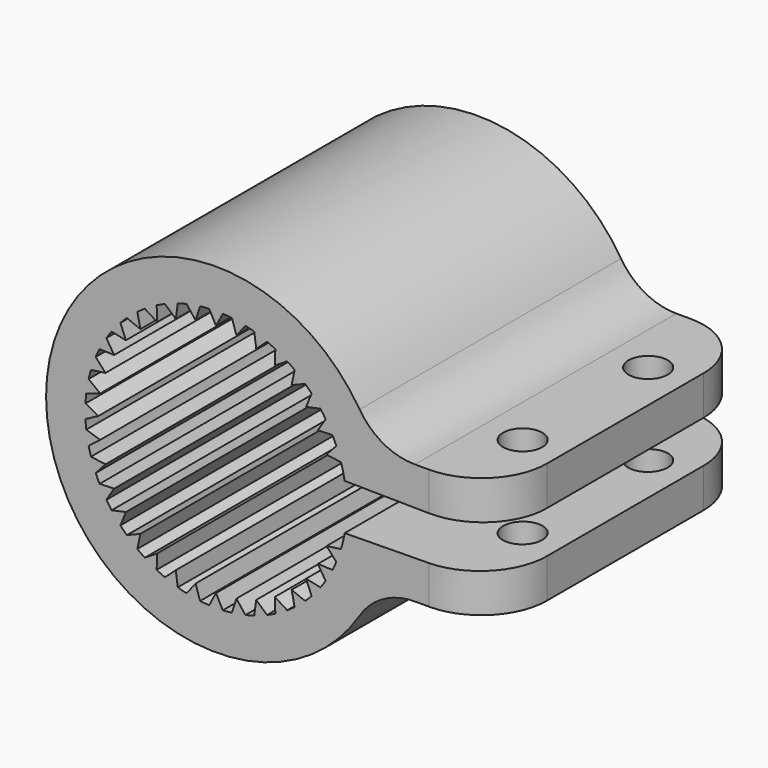
from build123d import *

# Parameters (mm, degrees)
F1_DEPTH = 25
F2_R     = 5
F3_R     = 1.5
F4_DEPTH = 9.231813


with BuildPart() as f1:
    # F0 (on Front) → F1 (new body)
    with BuildSketch(Plane.XZ):
        with BuildLine():
            ThreePointArc((-4.539669, 8.910186), (-4.226183, 9.063078), (-3.907555, 9.204945))
            Line((-3.907555, 9.204945), (-3.078181, 8.457234))
            Line((-3.078181, 8.457234), (-2.923464, 9.563125))
            ThreePointArc((-2.923464, 9.563125), (-2.58819, 9.659258), (-2.249769, 9.743641))
            Line((-2.249769, 9.743641), (-1.562834, 8.86327))
            Line((-1.562834, 8.86327), (-1.21843, 9.925494))
            ThreePointArc((-1.21843, 9.925494), (-0.871557, 9.961947), (-0.523624, 9.986281))
            Line((-0.523624, 9.986281), (0, 9))
            Line((0, 9), (0.523624, 9.986281))
            ThreePointArc((0.523624, 9.986281), (0.871557, 9.961947), (1.21843, 9.925494))
            Line((1.21843, 9.925494), (1.562834, 8.86327))
            Line((1.562834, 8.86327), (2.249769, 9.743641))
            ThreePointArc((2.249769, 9.743641), (2.58819, 9.659258), (2.923464, 9.563125))
            Line((2.923464, 9.563125), (3.078181, 8.457234))
            Line((3.078181, 8.457234), (3.907555, 9.204945))
            ThreePointArc((3.907555, 9.204945), (4.226183, 9.063078), (4.539669, 8.910186))
            Line((4.539669, 8.910186), (4.5, 7.794229))
            Line((4.5, 7.794229), (5.446613, 8.386561))
            ThreePointArc((5.446613, 8.386561), (5.735764, 8.19152), (6.017938, 7.986515))
            Line((6.017938, 7.986515), (5.785088, 6.8944))
            Line((5.785088, 6.8944), (6.820178, 7.313356))
            ThreePointArc((6.820178, 7.313356), (7.071068, 7.071068), (7.313356, 6.820178))
            Line((7.313356, 6.820178), (6.8944, 5.785088))
            Line((6.8944, 5.785088), (7.986515, 6.017938))
            ThreePointArc((7.986515, 6.017938), (8.19152, 5.735764), (8.386561, 5.446613))
            Line((8.386561, 5.446613), (7.794229, 4.5))
            Line((7.794229, 4.5), (8.910186, 4.539669))
            ThreePointArc((8.910186, 4.539669), (9.063078, 4.226183), (9.204945, 3.907555))
            Line((9.204945, 3.907555), (8.457234, 3.078181))
            Line((8.457234, 3.078181), (9.563125, 2.923464))
            ThreePointArc((9.563125, 2.923464), (9.721066, 2.345394), (9.844098, 1.758903))
            Line((9.844098, 1.758903), (21.31177, 1.615906))
            Line((21.31177, 1.615906), (21.31177, 4.615906))
            Line((21.31177, 4.615906), (12.152918, 4.615906))
            ThreePointArc((12.152918, 4.615906), (-13, 0), (12.152918, -4.615906))
            Line((12.152918, -4.615906), (21.31177, -4.615906))
            Line((21.31177, -4.615906), (21.31177, -1.615906))
            Line((21.31177, -1.615906), (9.844098, -1.758903))
            ThreePointArc((9.844098, -1.758903), (9.721066, -2.345394), (9.563125, -2.923464))
            Line((9.563125, -2.923464), (8.457234, -3.078181))
            Line((8.457234, -3.078181), (9.204945, -3.907555))
            ThreePointArc((9.204945, -3.907555), (9.063078, -4.226183), (8.910186, -4.539669))
            Line((8.910186, -4.539669), (7.794229, -4.5))
            Line((7.794229, -4.5), (8.386561, -5.446613))
            ThreePointArc((8.386561, -5.446613), (8.19152, -5.735764), (7.986515, -6.017938))
            Line((7.986515, -6.017938), (6.8944, -5.785088))
            Line((6.8944, -5.785088), (7.313356, -6.820178))
            ThreePointArc((7.313356, -6.820178), (7.071068, -7.071068), (6.820178, -7.313356))
            Line((6.820178, -7.313356), (5.785088, -6.8944))
            Line((5.785088, -6.8944), (6.017938, -7.986515))
            ThreePointArc((6.017938, -7.986515), (5.735764, -8.19152), (5.446613, -8.386561))
            Line((5.446613, -8.386561), (4.5, -7.794229))
            Line((4.5, -7.794229), (4.539669, -8.910186))
            ThreePointArc((4.539669, -8.910186), (4.226183, -9.063078), (3.907555, -9.204945))
            Line((3.907555, -9.204945), (3.078181, -8.457234))
            Line((3.078181, -8.457234), (2.923464, -9.563125))
            ThreePointArc((2.923464, -9.563125), (2.58819, -9.659258), (2.249769, -9.743641))
            Line((2.249769, -9.743641), (1.562834, -8.86327))
            Line((1.562834, -8.86327), (1.21843, -9.925494))
            ThreePointArc((1.21843, -9.925494), (0.871557, -9.961947), (0.523624, -9.986281))
            Line((0.523624, -9.986281), (0, -9))
            Line((0, -9), (-0.523624, -9.986281))
            ThreePointArc((-0.523624, -9.986281), (-0.871557, -9.961947), (-1.21843, -9.925494))
            Line((-1.21843, -9.925494), (-1.562834, -8.86327))
            Line((-1.562834, -8.86327), (-2.249769, -9.743641))
            ThreePointArc((-2.249769, -9.743641), (-2.58819, -9.659258), (-2.923464, -9.563125))
            Line((-2.923464, -9.563125), (-3.078181, -8.457234))
            Line((-3.078181, -8.457234), (-3.907555, -9.204945))
            ThreePointArc((-3.907555, -9.204945), (-4.226183, -9.063078), (-4.539669, -8.910186))
            Line((-4.539669, -8.910186), (-4.5, -7.794229))
            Line((-4.5, -7.794229), (-5.446613, -8.386561))
            ThreePointArc((-5.446613, -8.386561), (-5.735764, -8.19152), (-6.017938, -7.986515))
            Line((-6.017938, -7.986515), (-5.785088, -6.8944))
            Line((-5.785088, -6.8944), (-6.820178, -7.313356))
            ThreePointArc((-6.820178, -7.313356), (-7.071068, -7.071068), (-7.313356, -6.820178))
            Line((-7.313356, -6.820178), (-6.8944, -5.785088))
            Line((-6.8944, -5.785088), (-7.986515, -6.017938))
            ThreePointArc((-7.986515, -6.017938), (-8.19152, -5.735764), (-8.386561, -5.446613))
            Line((-8.386561, -5.446613), (-7.794229, -4.5))
            Line((-7.794229, -4.5), (-8.910186, -4.539669))
            ThreePointArc((-8.910186, -4.539669), (-9.063078, -4.226183), (-9.204945, -3.907555))
            Line((-9.204945, -3.907555), (-8.457234, -3.078181))
            Line((-8.457234, -3.078181), (-9.563125, -2.923464))
            ThreePointArc((-9.563125, -2.923464), (-9.659258, -2.58819), (-9.743641, -2.249769))
            Line((-9.743641, -2.249769), (-8.86327, -1.562834))
            Line((-8.86327, -1.562834), (-9.925494, -1.21843))
            ThreePointArc((-9.925494, -1.21843), (-9.961947, -0.871557), (-9.986281, -0.523624))
            Line((-9.986281, -0.523624), (-9, 0))
            Line((-9, 0), (-9.986281, 0.523624))
            ThreePointArc((-9.986281, 0.523624), (-9.961947, 0.871557), (-9.925494, 1.21843))
            Line((-9.925494, 1.21843), (-8.86327, 1.562834))
            Line((-8.86327, 1.562834), (-9.743641, 2.249769))
            ThreePointArc((-9.743641, 2.249769), (-9.659258, 2.58819), (-9.563125, 2.923464))
            Line((-9.563125, 2.923464), (-8.457234, 3.078181))
            Line((-8.457234, 3.078181), (-9.204945, 3.907555))
            ThreePointArc((-9.204945, 3.907555), (-9.063078, 4.226183), (-8.910186, 4.539669))
            Line((-8.910186, 4.539669), (-7.794229, 4.5))
            Line((-7.794229, 4.5), (-8.386561, 5.446613))
            ThreePointArc((-8.386561, 5.446613), (-8.19152, 5.735764), (-7.986515, 6.017938))
            Line((-7.986515, 6.017938), (-6.8944, 5.785088))
            Line((-6.8944, 5.785088), (-7.313356, 6.820178))
            ThreePointArc((-7.313356, 6.820178), (-7.071068, 7.071068), (-6.820178, 7.313356))
            Line((-6.820178, 7.313356), (-5.785088, 6.8944))
            Line((-5.785088, 6.8944), (-6.017938, 7.986515))
            ThreePointArc((-6.017938, 7.986515), (-5.735764, 8.19152), (-5.446613, 8.386561))
            Line((-5.446613, 8.386561), (-4.5, 7.794229))
            Line((-4.5, 7.794229), (-4.539669, 8.910186))
        make_face()
    extrude(amount=F1_DEPTH)

    # F2
    f2_edges = [f1.edges().sort_by_distance(p)[0] for p in [
        (12.152918, -12.5, 4.615906),
        (12.152918, -12.5, -4.615906),
        (21.31177, -25, 3.115906),
        (21.31177, -25, -3.115906),
        (21.31177, 0, 3.115906),
        (21.31177, 0, -3.115906),
    ]]
    fillet(f2_edges, radius=F2_R)

    # F3 (on face) → F4 (cut, through all)
    with BuildSketch(Plane.XY.offset(4.615906)):
        with Locations((18.264011, -6.5)):
            Circle(F3_R)
        with Locations((18.264011, -18.5)):
            Circle(F3_R)
    extrude(amount=-F4_DEPTH, mode=Mode.SUBTRACT)


solid = f1.part
